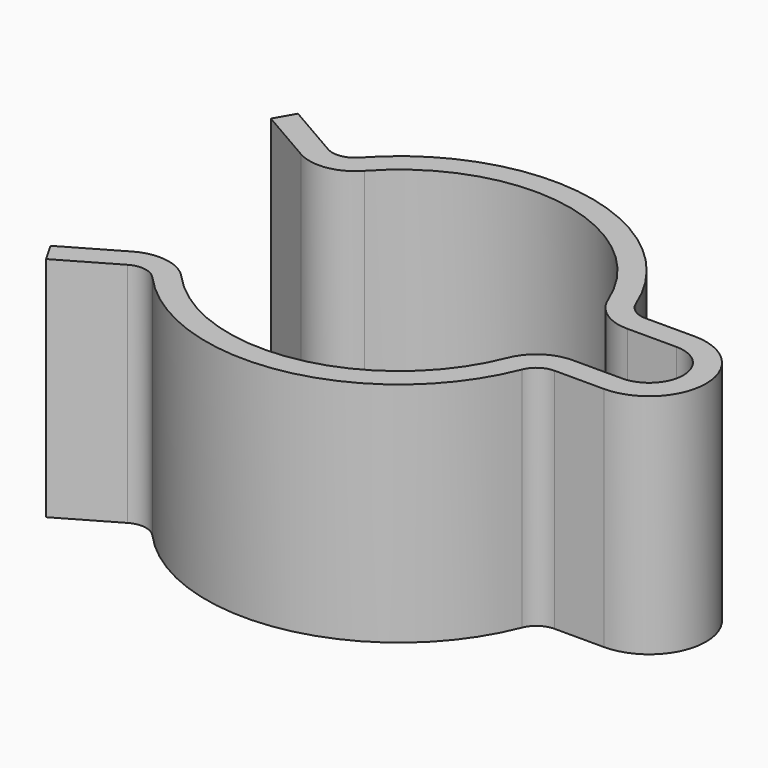
from build123d import *

# Parameters (mm, degrees)
F1_DEPTH = 1


with BuildPart() as f1:
    # F0 (on Top) → F1 (new body)
    with BuildSketch(Plane.XY):
        with BuildLine():
            ThreePointArc((-0.556015, 0.503336), (0.133683, 0.73799), (0.697244, 0.276316))
            ThreePointArc((0.697244, 0.276316), (0.770786, 0.184566), (0.883176, 0.15))
            Line((0.883176, 0.15), (1.1, 0.15))
            ThreePointArc((1.1, 0.15), (1.25, 0), (1.1, -0.15))
            Line((1.1, -0.15), (0.883176, -0.15))
            ThreePointArc((0.883176, -0.15), (0.770786, -0.184566), (0.697244, -0.276316))
            ThreePointArc((0.697244, -0.276316), (0.133683, -0.73799), (-0.556015, -0.503336))
            ThreePointArc((-0.556015, -0.503336), (-0.673263, -0.43998), (-0.804285, -0.464354))
            Line((-0.804285, -0.464354), (-1.05, -0.606218))
            Line((-1.05, -0.606218), (-1, -0.69282))
            Line((-1, -0.69282), (-0.754285, -0.550957))
            ThreePointArc((-0.754285, -0.550957), (-0.688774, -0.53877), (-0.63015, -0.570448))
            ThreePointArc((-0.63015, -0.570448), (0.151507, -0.836388), (0.79021, -0.313158))
            ThreePointArc((0.79021, -0.313158), (0.826981, -0.267283), (0.883176, -0.25))
            Line((0.883176, -0.25), (1.1, -0.25))
            ThreePointArc((1.1, -0.25), (1.35, 0), (1.1, 0.25))
            Line((1.1, 0.25), (0.883176, 0.25))
            ThreePointArc((0.883176, 0.25), (0.826981, 0.267283), (0.79021, 0.313158))
            ThreePointArc((0.79021, 0.313158), (0.151507, 0.836388), (-0.63015, 0.570448))
            ThreePointArc((-0.63015, 0.570448), (-0.688774, 0.53877), (-0.754285, 0.550957))
            Line((-0.754285, 0.550957), (-1, 0.69282))
            Line((-1, 0.69282), (-1.05, 0.606218))
            Line((-1.05, 0.606218), (-0.804285, 0.464354))
            ThreePointArc((-0.804285, 0.464354), (-0.673263, 0.43998), (-0.556015, 0.503336))
        make_face()
    extrude(amount=F1_DEPTH)


solid = f1.part
